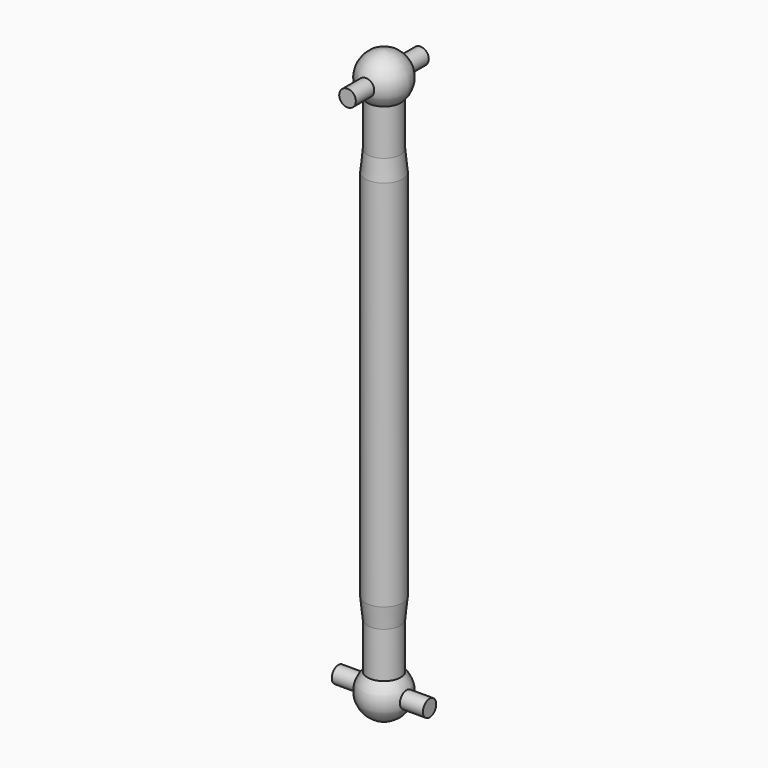
from build123d import *

# Parameters (mm, degrees)
F2_R     = 1
F3_DEPTH = 5.5
F4_R     = 1
F5_DEPTH = 5.5


with BuildPart() as f1:
    # F0 (on Front) → F1 (revolve)
    with BuildSketch(Plane.XZ):
        with BuildLine():
            ThreePointArc((2, 66), (2.692582, 69.177033), (0, 71))
            Line((0, 71), (0, 0))
            ThreePointArc((0, 0), (2.692582, 1.822967), (2, 5))
            Line((2, 5), (2, 10.5))
            Line((2, 10.5), (2.25, 13))
            Line((2.25, 13), (2.25, 58))
            Line((2.25, 58), (2, 60.5))
            Line((2, 60.5), (2, 66))
        make_face()
    revolve(axis=Axis((0, 0, 35.5), (0, 0, -1)))

    # F2 (on Front) → F3 (join, symmetric)
    with BuildSketch(Plane.XZ):
        with Locations((0, 68.1)):
            Circle(F2_R)
    extrude(amount=F3_DEPTH, both=True)

    # F4 (on Right) → F5 (join, symmetric)
    with BuildSketch(Plane.YZ):
        with Locations((0, 2.9)):
            Circle(F4_R)
    extrude(amount=F5_DEPTH, both=True)


solid = f1.part
